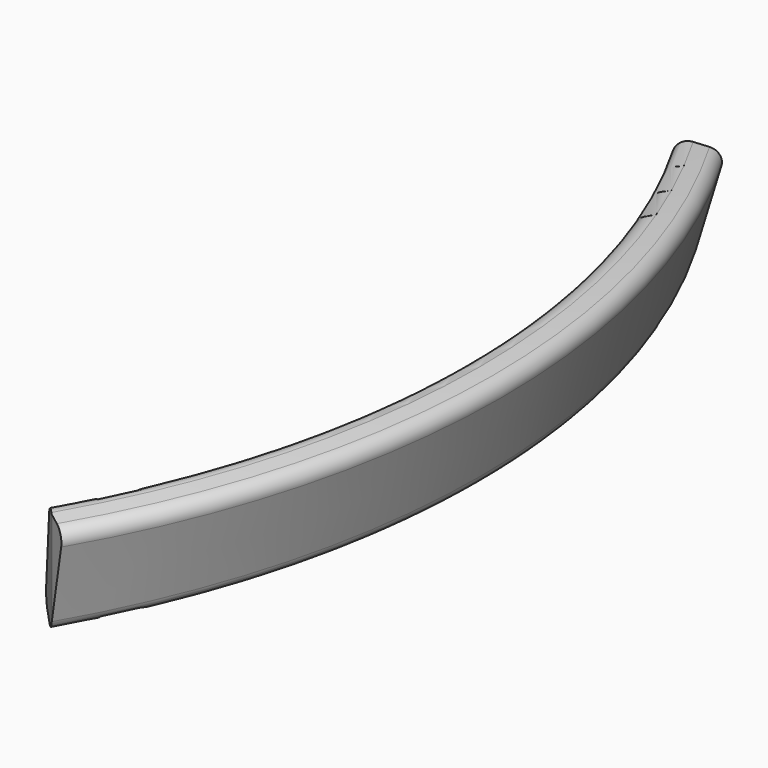
from build123d import *

# Parameters (mm, degrees)
F2_ANGLE_BACK = 30
F2_ANGLE      = 60
F5_DEPTH      = 76.2


with BuildPart() as f2:
    # F0 (on Front) → F2 (revolve)
    with BuildSketch(Plane.XZ, mode=Mode.PRIVATE) as f2_sk:
        with BuildLine():
            Line((11.4035060875, 42.5584641031), (1.6435009364, 6.1336289969))
            ThreePointArc((1.6435009364, 6.1336289969), (2.2778686193, 1.3151280605), (6.1336289969, -1.6435009364))
            Line((6.1336289969, -1.6435009364), (12.3775279838, -3.3165486276))
            ThreePointArc((12.3775279838, -3.3165486276), (17.1960289202, -2.6821809446), (20.1546579171, 1.173579433))
            Line((20.1546579171, 1.173579433), (29.9146630683, 37.5984145391))
            ThreePointArc((29.9146630683, 37.5984145391), (29.2802953854, 42.4169154755), (25.4245350077, 45.3755444725))
            Line((25.4245350077, 45.3755444725), (19.1806360209, 47.0485921636))
            ThreePointArc((19.1806360209, 47.0485921636), (14.3621350845, 46.4142244807), (11.4035060875, 42.5584641031))
        make_face()
    revolve(f2_sk.sketch.rotate(Axis((-368.6224720162, 0, 0), (0, 0, 1)), -F2_ANGLE_BACK), axis=Axis((-368.6224720162, 0, 0), (0, 0, 1)), revolution_arc=F2_ANGLE)

    # F4 (on offset) → F5 (cut)
    with BuildSketch(Plane.XY.offset(-6.35)):
        Polygon((-66.0165886754, -178.8610989372), (-22.1090212275, -204.2111448227), (-57.8689331003, -168.4512329499), align=None)
    extrude(amount=F5_DEPTH, mode=Mode.SUBTRACT)


solid = f2.part
